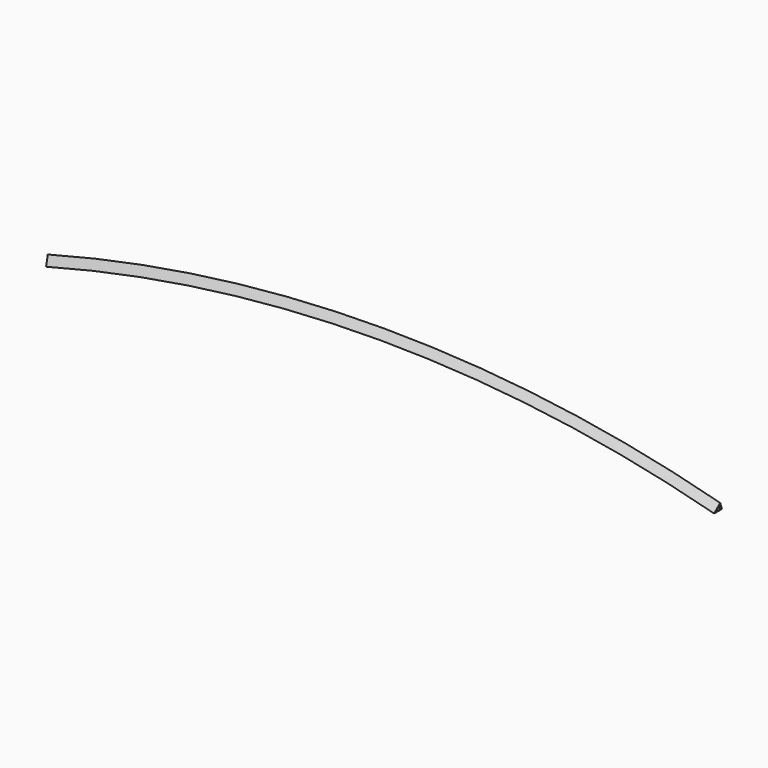
from build123d import *

# Parameters (mm, degrees)
F1_ANGLE_BACK = 15
F1_ANGLE      = 30


with BuildPart() as f1:
    # F0 (on Right) → F1 (revolve)
    with BuildSketch(Plane.YZ, mode=Mode.PRIVATE) as f1_sk:
        Polygon((0, 25.9807621135), (-15, 0), (15, 0), align=None)
        Polygon((0, 2.4102540378), (-10, 2.4102540378), (-3.5498759498, 13.5821966078), (-3.0693293034, 14.4145278149), (-2.5793681916, 15.2631653543), (-2.0490381057, 16.1817240079), (0, 19.7307621135), (2.0490381057, 16.1817240079), (2.5793681916, 15.2631653543), (3.0693293034, 14.4145278149), (3.5498759498, 13.5821966078), (10, 2.4102540378), align=None, mode=Mode.SUBTRACT)
        Polygon((0, 19.7307621135), (0, 16.7307621135), (1.0245190528, 16.4562430607), (2.0490381057, 16.1817240079), align=None)
        Polygon((-1.0245190528, 16.4562430607), (0, 16.7307621135), (0, 19.7307621135), (-2.0490381057, 16.1817240079), align=None)
        Polygon((2.0490381057, 16.1817240079), (1.0245190528, 16.4562430607), (1.8019436222, 15.8597042075), (2.5793681916, 15.2631653543), align=None)
        Polygon((2.4356364628, 15.1371160112), (3.0693293034, 14.4145278149), (2.5793681916, 15.2631653543), (1.8019436222, 15.8597042075), align=None)
        Polygon((2.4356364628, 15.1371160112), (3.5498759498, 13.5821966078), (3.0693293034, 14.4145278149), align=None)
        Polygon((-2.5793681916, 15.2631653543), (-3.0693293034, 14.4145278149), (-2.4356364628, 15.1371160112), (-1.8019436222, 15.8597042075), align=None)
        Polygon((-3.0693293034, 14.4145278149), (-3.5498759498, 13.5821966078), (-2.4356364628, 15.1371160112), align=None)
        Polygon((-1.8019436222, 15.8597042075), (-1.0245190528, 16.4562430607), (-2.0490381057, 16.1817240079), (-2.5793681916, 15.2631653543), align=None)
    revolve(f1_sk.sketch.rotate(Axis((0, -0.8083833382, -4000), (0, 1, 0)), -F1_ANGLE_BACK), axis=Axis((0, -0.8083833382, -4000), (0, 1, 0)), revolution_arc=F1_ANGLE)


solid = f1.part
